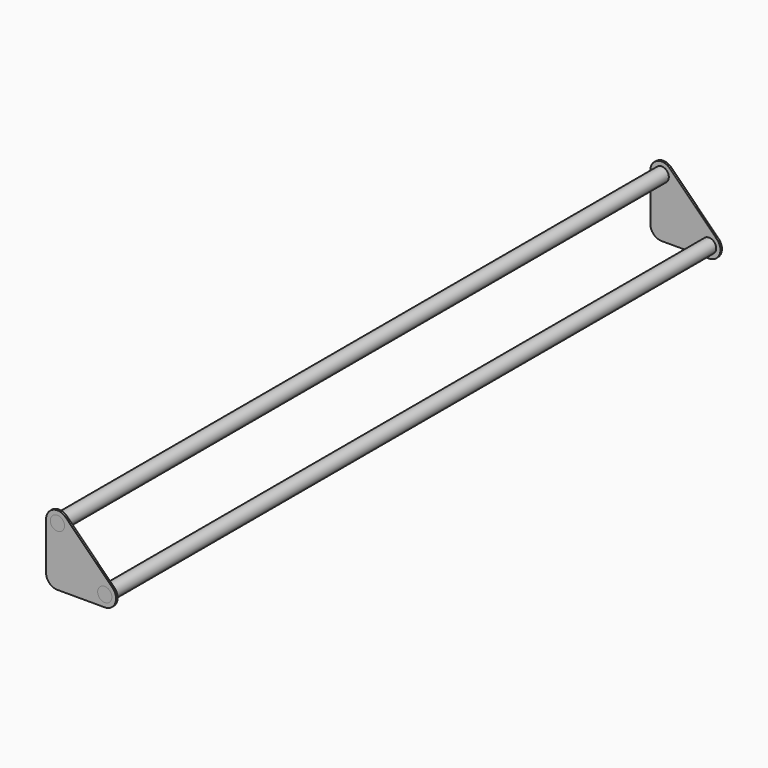
from build123d import *

# Parameters (mm, degrees)
F0_R          = 7.5
F1_DEPTH      = 400
F1_DEPTH_BACK = 400
F2_R          = 7.5
F3_DEPTH      = 2


with BuildPart() as f1:
    # F0 (on Front) → F1 (new body, two sides)
    with BuildSketch(Plane.XZ) as f1_sk:
        Circle(F0_R)
        with Locations((-50, 50)):
            Circle(F0_R)
    extrude(amount=F1_DEPTH)
    extrude(f1_sk.sketch, amount=-F1_DEPTH_BACK)


with BuildPart() as f3:
    # F2 (on face) → F3 (new body)
    with BuildSketch(Plane(origin=(0, 400, 0), x_dir=(-1, 0, 0), z_dir=(0, 1, 0))):
        with BuildLine():
            Line((41.514719, 58.485281), (-8.485281, 8.485281))
            ThreePointArc((-8.485281, 8.485281), (-11.086554, -4.592201), (0, -12))
            Line((0, -12), (50, -12))
            ThreePointArc((50, -12), (58.485281, -8.485281), (62, 0))
            Line((62, 0), (62, 50))
            ThreePointArc((62, 50), (54.592201, 61.086554), (41.514719, 58.485281))
        make_face()
        Circle(F2_R, mode=Mode.SUBTRACT)
        with Locations((50, 50)):
            Circle(F2_R, mode=Mode.SUBTRACT)
    extrude(amount=-F3_DEPTH)


with BuildPart() as f4_1:
    # F4: instance of F3
    add(f3.part.mirror(Plane.XZ))


solid = Compound([f1.part, f3.part, f4_1.part])
